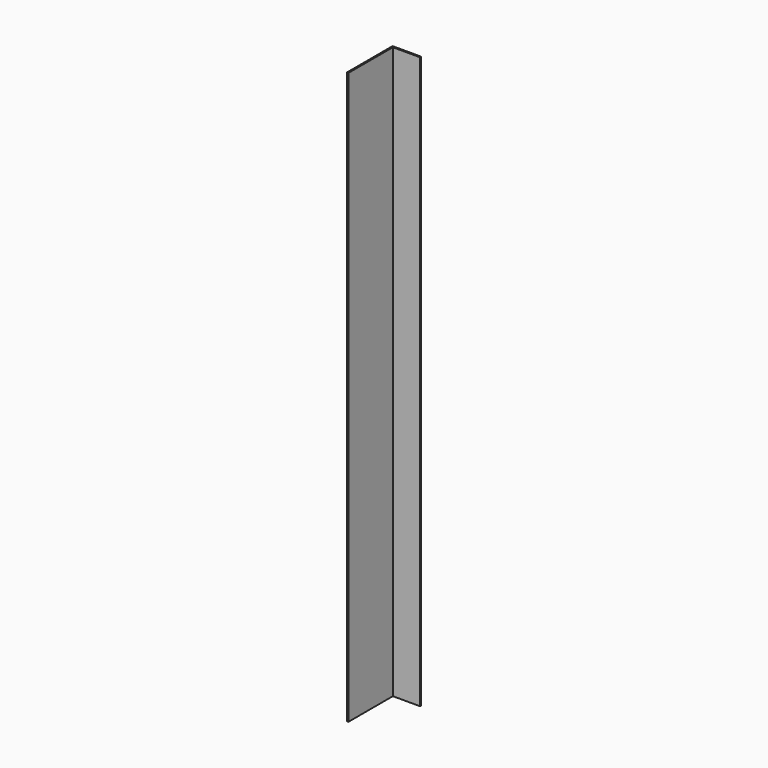
from build123d import *

# Parameters (mm, degrees)
F0_W     = 9.5
F0_H     = 0.5
F0_W_2   = 0.5
F0_H_2   = 19.5
F1_DEPTH = 200


with BuildPart() as f1:
    # F0 (on Top) → F1 (new body)
    with BuildSketch(Plane.XY):
        with Locations((-72.775641, 12.295875)):
            Rectangle(F0_W, F0_H)
        with Locations((-77.775641, 2.295875)):
            Rectangle(F0_W_2, F0_H_2)
        with Locations((-77.775641, 12.295875)):
            Rectangle(F0_W_2, F0_H)
    extrude(amount=F1_DEPTH)


solid = f1.part
